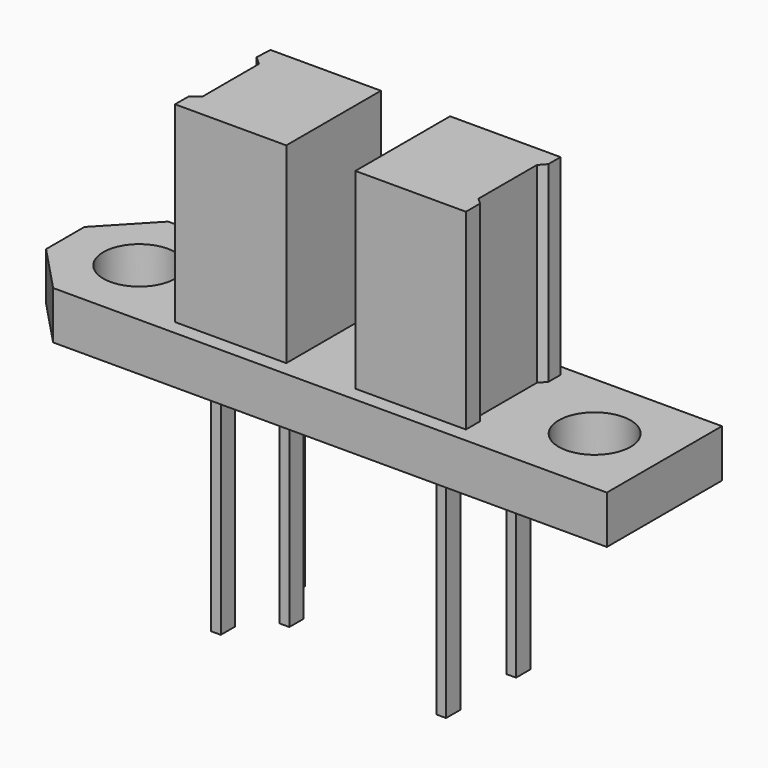
from build123d import *

# Parameters (mm, degrees)
F0_R     = 1.5
F1_DEPTH = 2
F2_DEPTH = 8
F3_W     = 0.4
F3_H     = 0.75
F4_DEPTH = 9


with BuildPart() as f1:
    # F0 (on Top) → F1 (new body)
    with BuildSketch(Plane.XY):
        Polygon((0, 3), (-23.106798, 3), (-25, 1), (-25, -1), (-23.106798, -3), (0, -3), align=None)
        with Locations((-21.910676, 0)):
            Circle(F0_R, mode=Mode.SUBTRACT)
        Polygon((-18.500659, 1.856685), (-18.470918, 2.540756), (-13.860874, 2.540756), (-13.860874, -2.396453), (-18.500659, -2.396453), (-18.500659, -1.68264), (-18.143752, -1.414959), (-18.143752, 1.529521), align=None, mode=Mode.SUBTRACT)
        Polygon((-10.975876, -2.396453), (-10.975876, 2.540756), (-6.365833, 2.540756), (-6.365833, 1.907852), (-6.620977, 1.622134), (-6.620977, -1.425057), (-6.365833, -1.652897), (-6.365833, -2.396453), align=None, mode=Mode.SUBTRACT)
        with Locations((-2.910676, 0)):
            Circle(F0_R, mode=Mode.SUBTRACT)
        Polygon((-13.860874, 2.540756), (-18.470918, 2.540756), (-18.500659, 1.856685), (-18.143752, 1.529521), (-18.143752, -1.414959), (-18.500659, -1.68264), (-18.500659, -2.396453), (-13.860874, -2.396453), align=None)
        Polygon((-6.365833, 2.540756), (-10.975876, 2.540756), (-10.975876, -2.396453), (-6.365833, -2.396453), (-6.365833, -1.652897), (-6.620977, -1.425057), (-6.620977, 1.622134), (-6.365833, 1.907852), align=None)
    extrude(amount=-F1_DEPTH)

    # F0 (on Top) → F2 (join)
    with BuildSketch(Plane.XY):
        Polygon((-13.860874, 2.540756), (-18.470918, 2.540756), (-18.500659, 1.856685), (-18.143752, 1.529521), (-18.143752, -1.414959), (-18.500659, -1.68264), (-18.500659, -2.396453), (-13.860874, -2.396453), align=None)
        Polygon((-6.365833, 2.540756), (-10.975876, 2.540756), (-10.975876, -2.396453), (-6.365833, -2.396453), (-6.365833, -1.652897), (-6.620977, -1.425057), (-6.620977, 1.622134), (-6.365833, 1.907852), align=None)
    extrude(amount=F2_DEPTH)


with BuildPart() as f4:
    # F3 (on face) → F4 (new body)
    with BuildSketch(Plane(origin=(0, 0, -2), x_dir=(1, 0, 0), z_dir=(0, 0, -1))):
        with Locations((-16.95, 1.825)):
            Rectangle(F3_W, F3_H)
        with Locations((-15.55, 0)):
            Rectangle(F3_W, F3_H)
        with Locations((-7.55, 1.825)):
            Rectangle(F3_W, F3_H)
        with Locations((-16.95, -1.825)):
            Rectangle(F3_W, F3_H)
        with Locations((-7.55, -1.825)):
            Rectangle(F3_W, F3_H)
    extrude(amount=F4_DEPTH)


solid = Compound([f1.part, f4.part])
